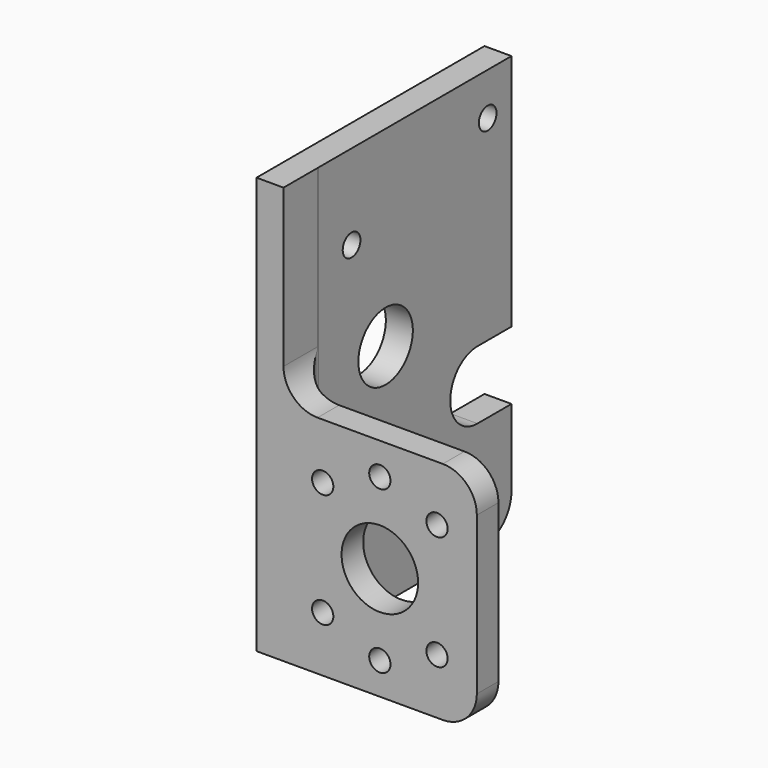
from build123d import *

# Parameters (mm, degrees)
PAD001_DEPTH    = 98
SKETCH001_R     = 2.6
SKETCH001_R_2   = 8
POCKET_DEPTH    = 8
SKETCH002_R     = 9
SKETCH002_R_2   = 2.5
POCKET001_DEPTH = 10


with BuildPart() as part:
    # Sketch → Pad001 (new body)
    with BuildSketch(Plane.XY):
        with BuildLine():
            Line((6.35, 10.35), (6.35, 67))
            Line((6.35, 67), (0, 67))
            Line((0, 67), (0, 0))
            Line((0, 0), (51.8, 0))
            Line((51.8, 0), (51.8, 6.35))
            Line((51.8, 6.35), (10.35, 6.35))
            ThreePointArc((6.35, 10.35), (7.521573, 7.521573), (10.35, 6.35))
        make_face()
    extrude(amount=PAD001_DEPTH)

    # Sketch001 → Pocket (cut)
    with BuildSketch(Plane(origin=(0, 0, 0), x_dir=(0, -1, 0), z_dir=(-1, 0, 0))):
        with Locations((-60, 88)):
            Circle(SKETCH001_R)
        with Locations((-20, 78)):
            Circle(SKETCH001_R)
        with Locations((-30, 53)):
            Circle(SKETCH001_R_2)
        with Locations((-15, 34)):
            Circle(SKETCH001_R_2)
        with BuildLine():
            Line((-68, 0), (-68, 42))
            Line((-68, 42), (-56.999999, 42))
            ThreePointArc((-57.000001, 26), (-49, 33.999999), (-56.999999, 42))
            Line((-67, 26), (-57.000001, 26))
            Line((-67, 26), (-67, 7.999993))
            ThreePointArc((-67, 7.999993), (-64.656849, 2.343141), (-58.999993, 0))
            Line((-68, 0), (-58.999993, 0))
        make_face()
    extrude(amount=-POCKET_DEPTH, mode=Mode.SUBTRACT)

    # Sketch002 → Pocket001 (cut)
    with BuildSketch(Plane.XZ):
        with Locations((29, 26.5)):
            Circle(SKETCH002_R)
        with Locations((15.564971, 39.935029)):
            Circle(SKETCH002_R_2)
        with Locations((29, 45.5)):
            Circle(SKETCH002_R_2)
        with Locations((42.435029, 39.935029)):
            Circle(SKETCH002_R_2)
        with Locations((15.564971, 13.064971)):
            Circle(SKETCH002_R_2)
        with Locations((29, 7.5)):
            Circle(SKETCH002_R_2)
        with Locations((42.435029, 13.064971)):
            Circle(SKETCH002_R_2)
        with BuildLine():
            Line((6.35, 61.000036), (6.35, 98))
            Line((6.35, 98), (51.8, 98))
            Line((51.8, 98), (51.8, 45))
            ThreePointArc((51.8, 45), (49.456854, 50.656854), (43.8, 53))
            Line((43.8, 53), (14.35, 53))
            ThreePointArc((14.35, 53), (8.693133, 55.343159), (6.35, 61.000036))
        make_face()
        with BuildLine():
            ThreePointArc((43.8, 0), (49.456854, 2.343146), (51.8, 8))
            Line((51.8, 8), (51.8, 0))
            Line((51.8, 0), (43.8, 0))
        make_face()
    extrude(amount=-POCKET001_DEPTH, mode=Mode.SUBTRACT)


solid = part.part
